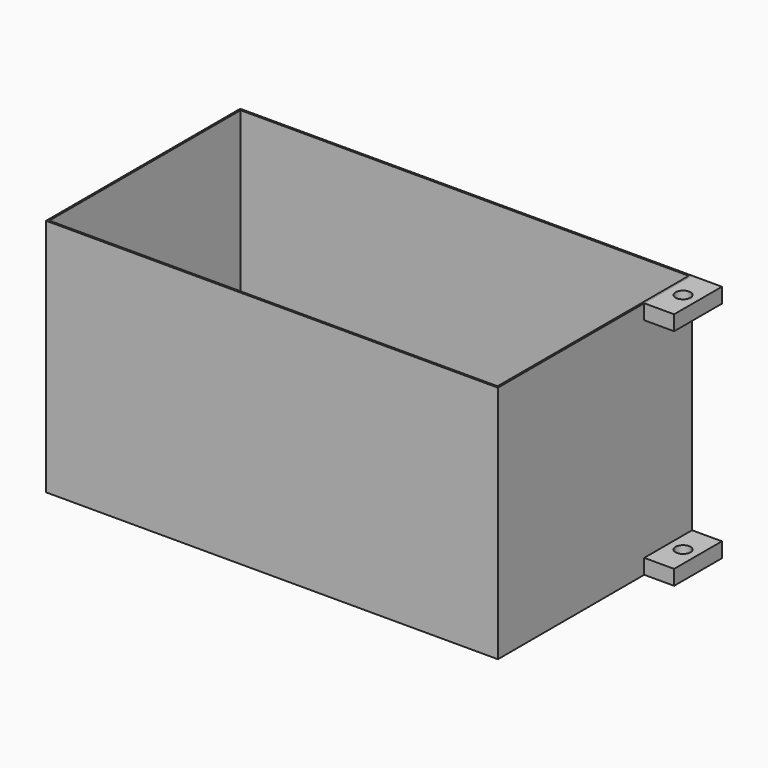
from build123d import *

# Parameters (mm, degrees)
F0_W     = 756
F0_H     = 406
F0_W_2   = 750
F0_H_2   = 400
F1_DEPTH = 400
F2_W     = 100
F2_H     = 25
F3_DEPTH = 50
F4_R     = 12.5
F5_DEPTH = 25


with BuildPart() as f1:
    # F0 (on Top) → F1 (new body)
    with BuildSketch(Plane.XY):
        Rectangle(F0_W, F0_H)
        Rectangle(F0_W_2, F0_H_2, mode=Mode.SUBTRACT)
    extrude(amount=F1_DEPTH)


with BuildPart() as f3:
    # F2 (on face) → F3 (new body)
    with BuildSketch(Plane.YZ.offset(378)):
        with Locations((153, 387.5)):
            Rectangle(F2_W, F2_H)
    extrude(amount=F3_DEPTH)

    # F4 (on face) → F5 (cut)
    with BuildSketch(Plane.XY.offset(400)):
        with Locations((403, 153)):
            Circle(F4_R)
    extrude(amount=-F5_DEPTH, mode=Mode.SUBTRACT)


with BuildPart() as f7_1:
    # F7: instance of F3
    add(f3.part.mirror(Plane.XY.offset(200)))


solid = Compound([f1.part, f3.part, f7_1.part])
